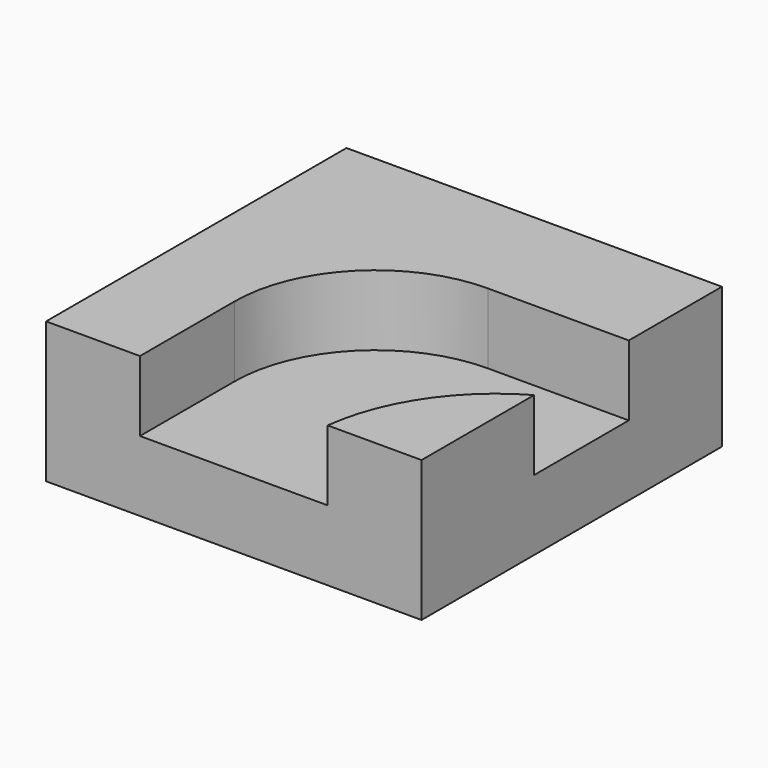
from build123d import *

# Parameters (mm, degrees)
F1_DEPTH = 30
F2_DEPTH = 15


with BuildPart() as f1:
    # F0 (on Top) → F1 (new body)
    with BuildSketch(Plane.XY):
        with BuildLine():
            Line((80, 0), (0, 0))
            Line((0, 0), (0, -80))
            Line((0, -80), (20, -80))
            Line((20, -80), (20, -54.806759))
            ThreePointArc((20, -54.806759), (28.786797, -33.593555), (50, -24.806759))
            Line((50, -24.806759), (80, -24.806759))
            Line((80, -24.806759), (80, 0))
        make_face()
        with BuildLine():
            Line((80, -50), (80, -24.806759))
            Line((80, -24.806759), (50, -24.806759))
            ThreePointArc((50, -24.806759), (28.786797, -33.593555), (20, -54.806759))
            Line((20, -54.806759), (20, -80))
            Line((20, -80), (60, -80))
            ThreePointArc((60, -80), (66.428126, -62.618751), (80, -50))
        make_face()
        with BuildLine():
            Line((80, -80), (80, -50))
            ThreePointArc((80, -50), (66.428126, -62.618751), (60, -80))
            Line((60, -80), (80, -80))
        make_face()
    extrude(amount=-F1_DEPTH)

    # F0 (on Top) → F2 (cut)
    with BuildSketch(Plane.XY):
        with BuildLine():
            Line((80, -50), (80, -24.806759))
            Line((80, -24.806759), (50, -24.806759))
            ThreePointArc((50, -24.806759), (28.786797, -33.593555), (20, -54.806759))
            Line((20, -54.806759), (20, -80))
            Line((20, -80), (60, -80))
            ThreePointArc((60, -80), (66.428126, -62.618751), (80, -50))
        make_face()
    extrude(amount=-F2_DEPTH, mode=Mode.SUBTRACT)


solid = f1.part
